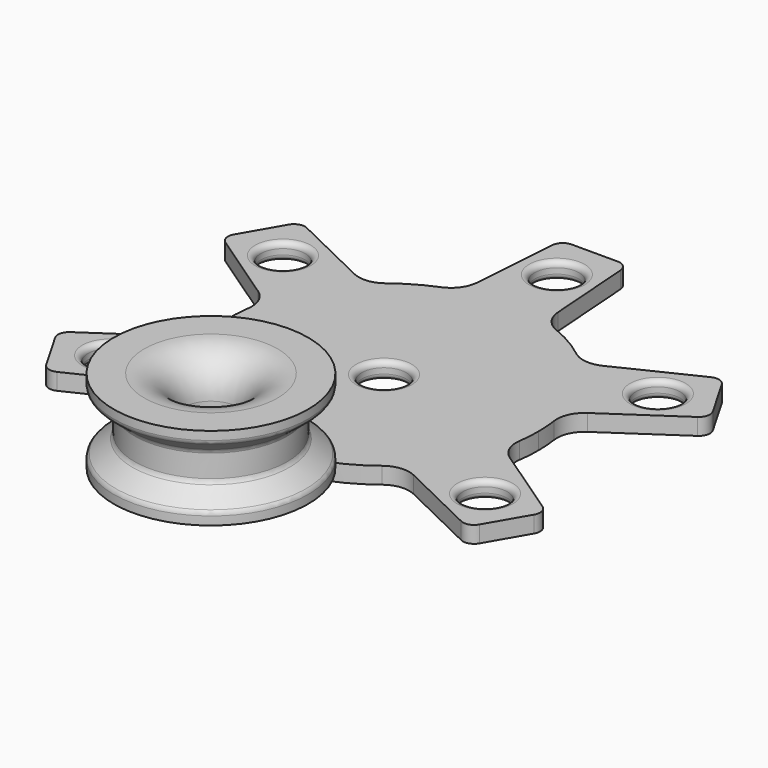
from build123d import *

# Parameters (mm, degrees)
F0_R     = 4
F1_DEPTH = 3
F2_R     = 5
F3_R     = 2
F4_R     = 1
F8_R     = 1
F9_R     = 7


with BuildPart() as f1:
    # F0 (on Top) → F1 (new body)
    with BuildSketch(Plane.XY):
        with BuildLine():
            ThreePointArc((26.9064539686, -6.8741944039), (27.5537918646, -3.4641546951), (27.7707006369, 0))
            ThreePointArc((27.7707006369, 0), (27.5537918646, 3.4641546951), (26.9064539686, 6.8741944039))
            ThreePointArc((26.9064539686, 6.8741944039), (24.0501322325, 13.8853503185), (19.4064539686, 19.8645754606))
            ThreePointArc((19.4064539686, 19.8645754606), (13.8853503185, 24.0501322325), (7.5, 26.7387698645))
            ThreePointArc((7.5, 26.7387698645), (0, 27.7707006369), (-7.5, 26.7387698645))
            ThreePointArc((-7.5, 26.7387698645), (-13.8853503185, 24.0501322325), (-19.4064539686, 19.8645754606))
            ThreePointArc((-19.4064539686, 19.8645754606), (-24.0501322325, 13.8853503185), (-26.9064539686, 6.8741944039))
            ThreePointArc((-26.9064539686, 6.8741944039), (-27.7707006369, 0), (-26.9064539686, -6.8741944039))
            ThreePointArc((-26.9064539686, -6.8741944039), (-24.0501322325, -13.8853503185), (-19.4064539686, -19.8645754606))
            ThreePointArc((-19.4064539686, -19.8645754606), (-13.8853503185, -24.0501322325), (-7.5, -26.7387698645))
            ThreePointArc((-7.5, -26.7387698645), (0, -27.7707006369), (7.5, -26.7387698645))
            ThreePointArc((7.5, -26.7387698645), (13.8853503185, -24.0501322325), (19.4064539686, -19.8645754606))
            ThreePointArc((19.4064539686, -19.8645754606), (24.0501322325, -13.8853503185), (26.9064539686, -6.8741944039))
        make_face()
        Circle(F0_R, mode=Mode.SUBTRACT)
        with BuildLine():
            ThreePointArc((-26.9064539686, 6.8741944039), (-24.0501322325, 13.8853503185), (-19.4064539686, 19.8645754606))
            Line((-19.4064539686, 19.8645754606), (-38.0430247363, 28.8923538026))
            Line((-38.0430247363, 28.8923538026), (-44.0430247363, 18.5000489572))
            Line((-44.0430247363, 18.5000489572), (-26.9064539686, 6.8741944039))
        make_face()
        with Locations((-33.7344454394, 19.4363057541)):
            Circle(F0_R, mode=Mode.SUBTRACT)
        with BuildLine():
            Line((-38.0430247363, -28.8923538026), (-19.4064539686, -19.8645754606))
            ThreePointArc((-19.4064539686, -19.8645754606), (-24.0501322325, -13.8853503185), (-26.9064539686, -6.8741944039))
            Line((-26.9064539686, -6.8741944039), (-44.0430247363, -18.5000489572))
            Line((-44.0430247363, -18.5000489572), (-38.0430247363, -28.8923538026))
        make_face()
        with Locations((-33.6995572585, -19.4967338561)):
            Circle(F0_R, mode=Mode.SUBTRACT)
        with BuildLine():
            Line((6, -47.3924027598), (7.5, -26.7387698645))
            ThreePointArc((7.5, -26.7387698645), (0, -27.7707006369), (-7.5, -26.7387698645))
            Line((-7.5, -26.7387698645), (-6, -47.3924027598))
            Line((-6, -47.3924027598), (6, -47.3924027598))
        make_face()
        with Locations((0.0348881809, -38.9330396102)):
            Circle(F0_R, mode=Mode.SUBTRACT)
        with BuildLine():
            Line((44.0430247363, -18.5000489572), (26.9064539686, -6.8741944039))
            ThreePointArc((26.9064539686, -6.8741944039), (24.0501322325, -13.8853503185), (19.4064539686, -19.8645754606))
            Line((19.4064539686, -19.8645754606), (38.0430247363, -28.8923538026))
            Line((38.0430247363, -28.8923538026), (44.0430247363, -18.5000489572))
        make_face()
        with Locations((33.7344454394, -19.4363057541)):
            Circle(F0_R, mode=Mode.SUBTRACT)
        with BuildLine():
            ThreePointArc((-7.5, 26.7387698645), (0, 27.7707006369), (7.5, 26.7387698645))
            Line((7.5, 26.7387698645), (6, 47.3924027598))
            Line((6, 47.3924027598), (-6, 47.3924027598))
            Line((-6, 47.3924027598), (-7.5, 26.7387698645))
        make_face()
        with Locations((-0.0348881809, 38.9330396102)):
            Circle(F0_R, mode=Mode.SUBTRACT)
        with BuildLine():
            ThreePointArc((19.4064539686, 19.8645754606), (24.0501322325, 13.8853503185), (26.9064539686, 6.8741944039))
            Line((26.9064539686, 6.8741944039), (44.0430247363, 18.5000489572))
            Line((44.0430247363, 18.5000489572), (38.0430247363, 28.8923538026))
            Line((38.0430247363, 28.8923538026), (19.4064539686, 19.8645754606))
        make_face()
        with Locations((33.6995572585, 19.4967338561)):
            Circle(F0_R, mode=Mode.SUBTRACT)
    extrude(amount=F1_DEPTH)

    # F2
    f2_edges = [f1.edges().sort_by_distance(p)[0] for p in [
        (-19.406454, -19.864575, 1.5),
        (-7.5, -26.73877, 1.5),
        (19.406454, -19.864575, 1.5),
        (7.5, -26.73877, 1.5),
        (26.906454, -6.874194, 1.5),
        (7.5, 26.73877, 1.5),
        (-7.5, 26.73877, 1.5),
        (-19.406454, 19.864575, 1.5),
        (-26.906454, 6.874194, 1.5),
        (-26.906454, -6.874194, 1.5),
        (26.906454, 6.874194, 1.5),
        (19.406454, 19.864575, 1.5),
    ]]
    fillet(f2_edges, radius=F2_R)

    # F3
    f3_edges = [f1.edges().sort_by_distance(p)[0] for p in [
        (-44.043025, -18.500049, 1.5),
        (-6, -47.392403, 1.5),
        (38.043025, -28.892354, 1.5),
        (-38.043025, 28.892354, 1.5),
        (6, 47.392403, 1.5),
        (-6, 47.392403, 1.5),
        (-44.043025, 18.500049, 1.5),
        (44.043025, -18.500049, 1.5),
        (6, -47.392403, 1.5),
        (-38.043025, -28.892354, 1.5),
        (38.043025, 28.892354, 1.5),
        (44.043025, 18.500049, 1.5),
    ]]
    fillet(f3_edges, radius=F3_R)

    # F4
    f4_edges = [f1.edges().sort_by_distance(p)[0] for p in [
        (-4, 0, 3),
        (-37.699557, -19.496734, 3),
        (-37.734445, 19.436306, 3),
        (-3.965112, -38.93304, 3),
        (29.734445, -19.436306, 3),
        (29.699557, 19.496734, 3),
        (-37.734445, 19.436306, 0),
        (29.699557, 19.496734, 0),
        (-4, 0, 0),
        (29.734445, -19.436306, 0),
        (-3.965112, -38.93304, 0),
        (-37.699557, -19.496734, 0),
        (-4.034888, 38.93304, 3),
        (-4.034888, 38.93304, 0),
    ]]
    fillet(f4_edges, radius=F4_R)


with BuildPart() as f7:
    # F6 (on Right) → F7 (revolve)
    with BuildSketch(Plane.YZ):
        Polygon((-33.9330396102, 19), (-33.9330396102, 4), (-21.4330396102, 4), (-21.4330396102, 6), (-25.1830396102, 9), (-25.1830396102, 14), (-21.4330396102, 17), (-21.4330396102, 19), align=None)
    revolve(axis=Axis((0, -38.9330396102, 4.0137199368), (0, 0, 1)))

    # F8
    f8_edges = [f7.edges().sort_by_distance(p)[0] for p in [
        (0, -52.68304, 9),
        (0, -52.68304, 14),
        (0, -56.43304, 17),
        (0, -56.43304, 6),
    ]]
    fillet(f8_edges, radius=F8_R)

    # F9
    f9_edges = [f7.edges().sort_by_distance(p)[0] for p in [
        (0, -43.93304, 19),
        (0, -43.93304, 4),
    ]]
    fillet(f9_edges, radius=F9_R)


solid = Compound([f1.part, f7.part])
